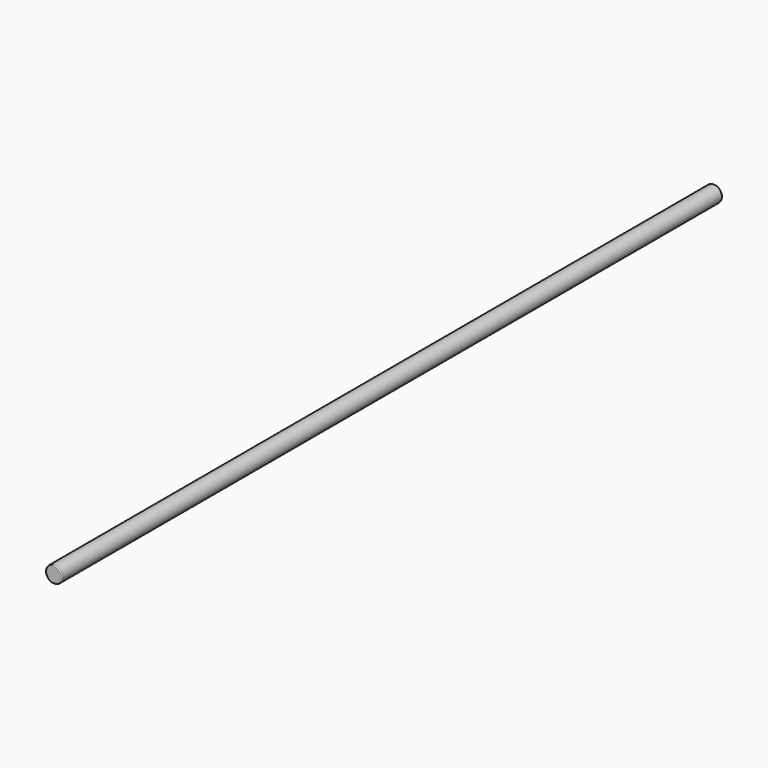
from build123d import *

# Parameters (mm, degrees)
SKETCH_R  = 4
PAD_DEPTH = 200
FILLET_R  = 0.5


with BuildPart() as part:
    # Sketch → Pad (new body, symmetric)
    with BuildSketch(Plane.XZ):
        Circle(SKETCH_R)
    extrude(amount=PAD_DEPTH, both=True)

    # Fillet
    fillet_edges = [part.edges().sort_by_distance(p)[0] for p in [
        (-4, -200, 0),
        (-4, 200, 0),
    ]]
    fillet(fillet_edges, radius=FILLET_R)


solid = part.part
